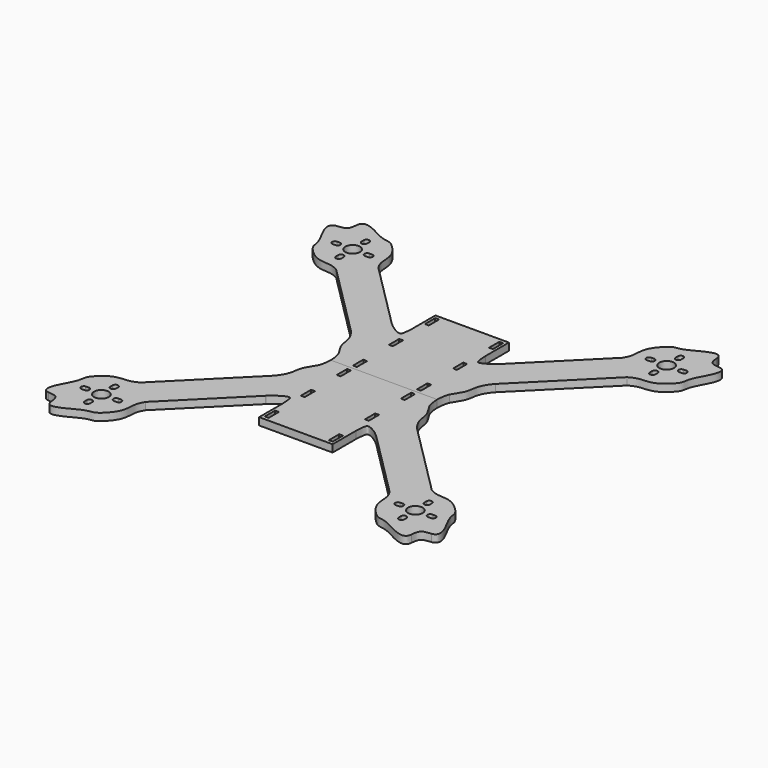
from build123d import *

# Parameters (mm, degrees)
F0_W     = 2.1
F0_H     = 7
F0_R     = 4
F1_DEPTH = 4


with BuildPart() as f1:
    # F0 (on Top) → F1 (new body)
    with BuildSketch(Plane.XY):
        with BuildLine():
            Line((0, 60), (-20, 60))
            Line((-20, 60), (-20, 44.2009568214))
            add(Edge.make_bspline(
                [(-29.9825655855, 42.7278844381), (-27.3246779581, 40.1057324641), (-20.6157994004, 36.0127673178), (-20.3557871282, 38.4822674096), (-20, 44.2009568214)],
                knots=[0.0137096156, 0.0137096156, 0.0137096156, 0.0137096156, 0.5438150993, 1, 1, 1, 1], degree=3))
            add(Edge.make_bspline(
                [(-30.1868301294, 42.9321489819), (-30.1194084022, 42.8637953459), (-30.0513040135, 42.7956986687), (-29.9825655855, 42.7278844381)],
                knots=[0, 0, 0, 0, 0.0137096156, 0.0137096156, 0.0137096156, 0.0137096156], degree=3))
            Line((-30.1868301294, 42.9321489819), (-66.506708029, 79.2520268816))
            add(Edge.make_bspline(
                [(-66.506708029, 79.2520268816), (-68.0648140175, 81.8966545184), (-68.5855277756, 84.6010781003), (-68.7536492408, 89.6356190135), (-70.4075744371, 94.3776804462), (-77.4070788126, 101.8348141183), (-81.3947151324, 99.549786022), (-97.6794323207, 110.4894242153), (-98.0970535458, 103.8105555982)],
                knots=[0, 0, 0, 0, 0.1518451263, 0.2814362754, 0.4222666362, 0.6001442391, 0.7732168998, 0.960781243, 0.960781243, 0.960781243, 0.960781243], degree=3))
            add(Edge.make_bspline(
                [(-98.0970535458, 103.8105555982), (-98.2681763992, 102.1950337951), (-98.7673387049, 98.2485786021), (-102.3977002338, 98.3820631501), (-104.2656595068, 98.0689446354)],
                knots=[0, 0, 0, 0, 0.4966221195, 1, 1, 1, 1], degree=3))
            add(Edge.make_bspline(
                [(-79.2346300904, 66.5241048202), (-81.8792577272, 68.0822108087), (-84.5836813091, 68.6029245668), (-89.6182222223, 68.771046032), (-94.3602836551, 70.4249712283), (-101.8174173272, 77.4244756038), (-99.5520471881, 81.3778065317), (-110.1930201117, 97.2806829382), (-104.2656595068, 98.0689446354)],
                knots=[0, 0, 0, 0, 0.1518451263, 0.2814362754, 0.4222666362, 0.6001442391, 0.7732168998, 0.9561484347, 0.9561484347, 0.9561484347, 0.9561484347], degree=3))
            Line((-79.2346300904, 66.5241048202), (-39.3252924958, 26.6147672257))
            add(Edge.make_bspline(
                [(-39.3252924958, 26.6147672257), (-33.6773093033, 20.186338355), (-36.1933512929, 15.2623768411), (-31.3610764204, 9.0351696737), (-30.1760704458, 6.8113273516)],
                knots=[0, 0, 0, 0, 0.5071336732, 0.7592124755, 0.7592124755, 0.7592124755, 0.7592124755], degree=3))
            add(Edge.make_bspline(
                [(-30.1760704458, 6.8113273516), (-29.0441440301, 4.6870968222), (-28.2949219041, 2.4203065552), (-29.0000019793, 0)],
                knots=[0.7592124755, 0.7592124755, 0.7592124755, 0.7592124755, 1, 1, 1, 1], degree=3))
            Line((-29.0000019793, 0), (-20, 0))
            Line((-20, 0), (0, 0))
            Line((0, 0), (0, 60))
        make_face()
        with Locations((-17.45, 5.5)):
            Rectangle(F0_W, F0_H, mode=Mode.SUBTRACT)
        with Locations((-17.45, 30)):
            Rectangle(F0_W, F0_H, mode=Mode.SUBTRACT)
        with Locations((-17.45, 54.5)):
            Rectangle(F0_W, F0_H, mode=Mode.SUBTRACT)
        with BuildLine():
            Line((-86.9651963577, 76.0118653547), (-86.9706901977, 77.5119031263))
            ThreePointArc((-86.9706901977, 77.5119031263), (-85.4761939226, 79.017386731), (-83.970710318, 77.5228904559))
            Line((-83.970710318, 77.5228904559), (-83.965216478, 76.0228526844))
            ThreePointArc((-83.965216478, 76.0228526844), (-85.4597127528, 74.5173690253), (-86.9651963577, 76.0118653547))
        make_face(mode=Mode.SUBTRACT)
        with BuildLine():
            Line((-93.7608149913, 83.9826087027), (-95.2608149913, 83.9945877806))
            ThreePointArc((-95.2608149913, 83.9945877806), (-96.5661297199, 85.5841344417), (-95.0576084688, 86.9823006562))
            Line((-95.0576084688, 86.9823006562), (-93.5576084688, 86.9703215783))
            ThreePointArc((-93.5576084688, 86.9703215783), (-92.0730446096, 85.3685834537), (-93.7608149913, 83.9826087027))
        make_face(mode=Mode.SUBTRACT)
        with Locations((-85.5, 85.5173967912)):
            Circle(F0_R, mode=Mode.SUBTRACT)
        with BuildLine():
            ThreePointArc((-84.0293098023, 93.5228904562), (-85.5238060774, 92.0174068515), (-87.029289682, 93.5119031266))
            Line((-87.029289682, 93.5119031266), (-87.034783522, 95.0119408981))
            ThreePointArc((-87.034783522, 95.0119408981), (-85.5402872472, 96.5174245572), (-84.0348036423, 95.0229282278))
            Line((-84.0348036423, 95.0229282278), (-84.0293098023, 93.5228904562))
        make_face(mode=Mode.SUBTRACT)
        with BuildLine():
            ThreePointArc((-76.0119786959, 86.9823006562), (-74.5034574449, 85.5841344417), (-75.8087721735, 83.9945877806))
            Line((-75.8087721735, 83.9945877806), (-77.3087721735, 83.9826087027))
            ThreePointArc((-77.3087721735, 83.9826087027), (-78.9965425551, 85.3685834537), (-77.5119786959, 86.9703215783))
            Line((-77.5119786959, 86.9703215783), (-76.0119786959, 86.9823006562))
        make_face(mode=Mode.SUBTRACT)
        with BuildLine():
            add(Edge.make_bspline(
                [(-30.1868301294, 42.9321489819), (-30.1194084022, 42.8637953459), (-30.0513040135, 42.7956986687), (-29.9825655855, 42.7278844381)],
                knots=[0, 0, 0, 0, 0.0137096156, 0.0137096156, 0.0137096156, 0.0137096156], degree=3))
            Line((-29.9825655855, 42.7278844381), (-30.1868301294, 42.9321489819))
        make_face()
        with BuildLine():
            ThreePointArc((-30.1760704458, 6.8113273516), (-29.2931959686, 3.4565718609), (-29.0000019793, 0))
            add(Edge.make_bspline(
                [(-30.1760704458, 6.8113273516), (-29.0441440301, 4.6870968222), (-28.2949219041, 2.4203065552), (-29.0000019793, 0)],
                knots=[0.7592124755, 0.7592124755, 0.7592124755, 0.7592124755, 1, 1, 1, 1], degree=3))
        make_face()
    extrude(amount=F1_DEPTH)

    # F2: F1 across plane


with BuildPart() as f1_1:
    add(f1.part)
    add(f1.part.mirror(Plane.YZ))


with BuildPart() as f3_1:
    # F3: instance of F1
    add(f1_1.part.mirror(Plane.XZ))


solid = Compound([f1_1.part, f3_1.part])
